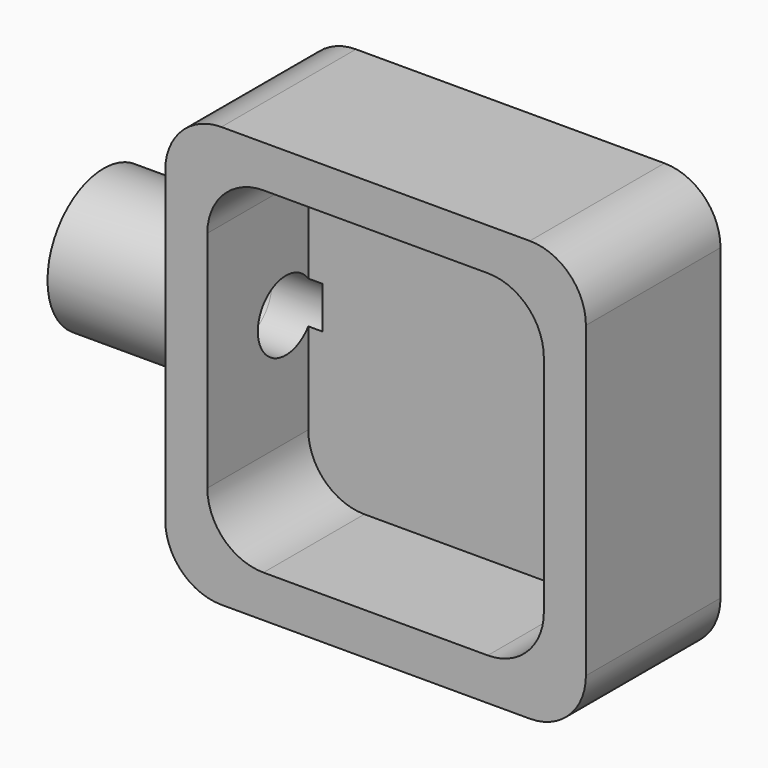
from build123d import *

# Parameters (mm, degrees)
F1_DEPTH = 1.5
F2_DEPTH = 6
F3_R     = 1.25
F4_DEPTH = 2
F5_DEPTH = 5


with BuildPart() as f1:
    # F0 (on Front) → F1 (new body)
    with BuildSketch(Plane.XZ):
        with BuildLine():
            Line((-4, -6), (4, -6))
            ThreePointArc((4, -6), (5.414214, -5.414214), (6, -4))
            Line((6, -4), (6, 4))
            ThreePointArc((6, 4), (5.414214, 5.414214), (4, 6))
            Line((4, 6), (-4, 6))
            ThreePointArc((-4, 6), (-5.414214, 5.414214), (-6, 4))
            Line((-6, 4), (-6, -4))
            ThreePointArc((-6, -4), (-5.414214, -5.414214), (-4, -6))
        make_face()
    extrude(amount=F1_DEPTH)

    # F0 (on Front) → F2 (join)
    with BuildSketch(Plane.XZ):
        with BuildLine():
            Line((-5.5, -7.5), (5.5, -7.5))
            ThreePointArc((5.5, -7.5), (6.914214, -6.914214), (7.5, -5.5))
            Line((7.5, -5.5), (7.5, 5.5))
            ThreePointArc((7.5, 5.5), (6.914214, 6.914214), (5.5, 7.5))
            Line((5.5, 7.5), (-5.5, 7.5))
            ThreePointArc((-5.5, 7.5), (-6.914214, 6.914214), (-7.5, 5.5))
            Line((-7.5, 5.5), (-7.5, -5.5))
            ThreePointArc((-7.5, -5.5), (-6.914214, -6.914214), (-5.5, -7.5))
        make_face()
        with BuildLine():
            ThreePointArc((6, -4), (5.414214, -5.414214), (4, -6))
            Line((4, -6), (-4, -6))
            ThreePointArc((-4, -6), (-5.414214, -5.414214), (-6, -4))
            Line((-6, -4), (-6, 4))
            ThreePointArc((-6, 4), (-5.414214, 5.414214), (-4, 6))
            Line((-4, 6), (4, 6))
            ThreePointArc((4, 6), (5.414214, 5.414214), (6, 4))
            Line((6, 4), (6, -4))
        make_face(mode=Mode.SUBTRACT)
    extrude(amount=F2_DEPTH)

    # F3 (on face) → F4 (cut)
    with BuildSketch(Plane(origin=(-7.5, 0, 0), x_dir=(0, -1, 0), z_dir=(-1, 0, 0))):
        with Locations((2.5, 0)):
            Circle(F3_R)
    extrude(amount=-F4_DEPTH, mode=Mode.SUBTRACT)

    # F3 (on face) → F5 (join)
    with BuildSketch(Plane(origin=(-7.5, 0, 0), x_dir=(0, -1, 0), z_dir=(-1, 0, 0))):
        with BuildLine():
            ThreePointArc((0, 0), (2.5, -2.5), (5, 0))
            ThreePointArc((5, 0), (2.5, 2.5), (0, 0))
        make_face()
        with Locations((2.5, 0)):
            Circle(F3_R, mode=Mode.SUBTRACT)
    extrude(amount=F5_DEPTH)


solid = f1.part
